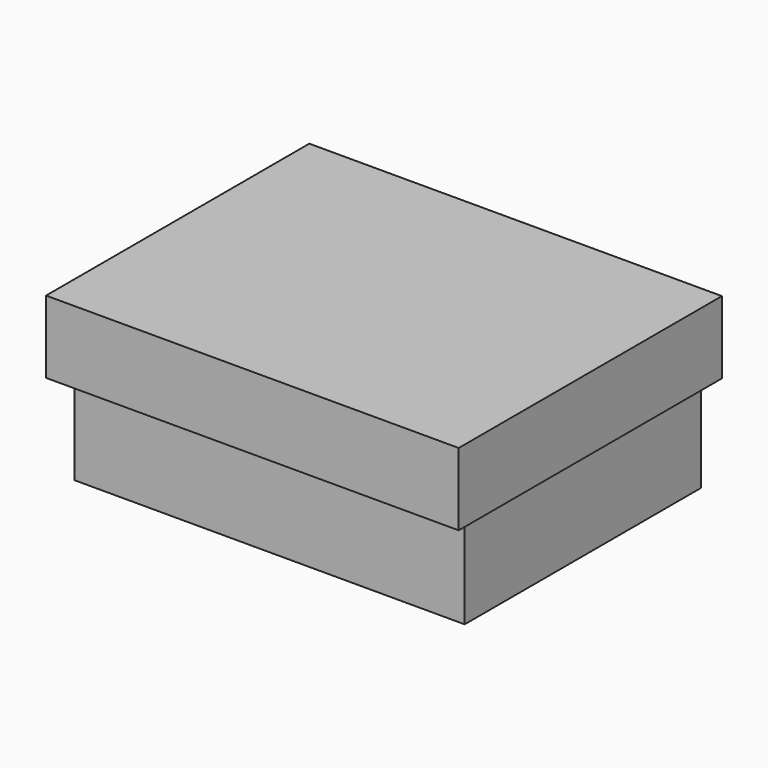
from build123d import *

# Parameters (mm, degrees)
F0_W      = 74
F0_H      = 59
F1_DEPTH  = 13
F2_W      = 70
F2_H      = 53
F3_DEPTH  = 3
F3_FACE_W = 70
F3_FACE_H = 53
F4_DEPTH  = 13


with BuildPart() as f1:
    # F0 (on Top) → F1 (new body)
    with BuildSketch(Plane.XY):
        with Locations((-86.124225, -25.756026)):
            Rectangle(F0_W, F0_H)
    extrude(amount=F1_DEPTH)

    # F2 (on Top) → F3 (join)
    with BuildSketch(Plane.XY):
        with Locations((-84.860367, -26.5)):
            Rectangle(F2_W, F2_H)
    extrude(amount=-F3_DEPTH)

    # F3_face (on face) → F4 (join)
    with BuildSketch(Plane(origin=(-84.860367, -26.5, -3), x_dir=(1, 0, 0), z_dir=(0, 0, -1))):
        Rectangle(F3_FACE_W, F3_FACE_H)
    extrude(amount=F4_DEPTH)


solid = f1.part
